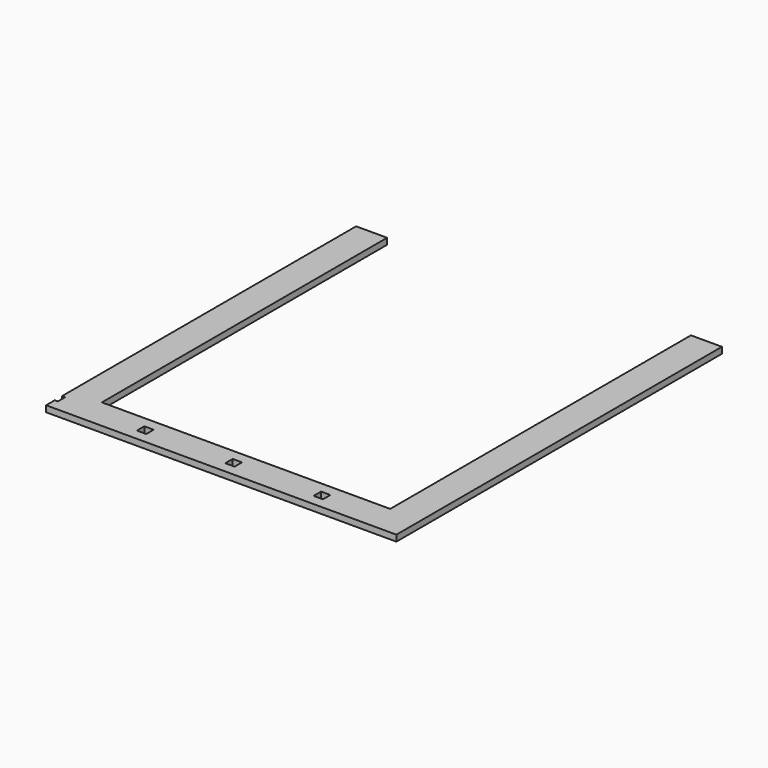
from build123d import *

# Parameters (mm, degrees)
F0_W     = 12
F0_H     = 12
F1_DEPTH = 8


with BuildPart() as f1:
    # F0 (on Top) → F1 (new body)
    with BuildSketch(Plane.XY):
        Polygon((-187.250624, 322.639689), (-227.250624, 322.639689), (-227.250624, -151.360311), (-223.250624, -151.360311), (-223.250624, -163.360311), (-227.250624, -163.360311), (-227.250624, -177.360311), (224.749376, -177.360311), (224.749376, 347.639689), (184.749376, 347.639689), (184.749376, -137.360311), (-1.250624, -137.360311), (-187.250624, -137.360311), align=None)
        with Locations((-115.250624, -157.360311)):
            Rectangle(F0_W, F0_H, mode=Mode.SUBTRACT)
        Polygon((-7.250624, -151.360311), (-1.250624, -151.360311), (4.749376, -151.360311), (4.749376, -163.360311), (-7.250624, -163.360311), align=None, mode=Mode.SUBTRACT)
        with Locations((112.749376, -157.360311)):
            Rectangle(F0_W, F0_H, mode=Mode.SUBTRACT)
    extrude(amount=F1_DEPTH)


solid = f1.part
